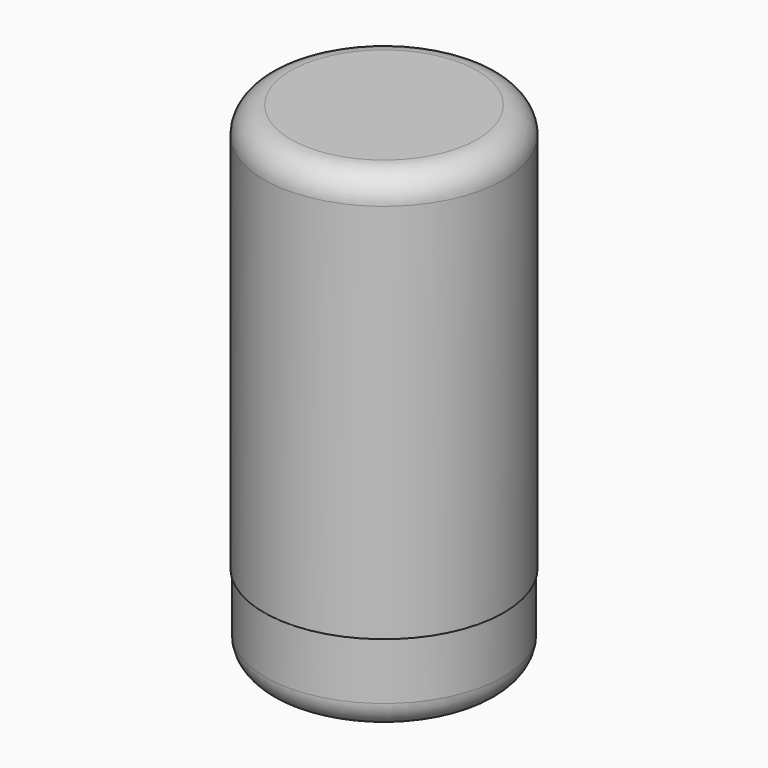
from build123d import *

# Parameters (mm, degrees)
F0_R      = 20.9647391965
F1_DEPTH  = 79.7232091427
F2_R      = 22.7630616111
F2_R_2    = 20.9647391965
F3_DEPTH  = 77.3724243045
F4_T      = -2.54
F5_R      = 5.08
F6_R      = 22.5575417357
F7_DEPTH  = 13.5688632727
F9_D      = 6.35
F9_DEPTH  = 31.75
F9_TIP    = 1.9077324654
F10_R     = 5.08
F12_D     = 2.54
F12_DEPTH = 31.75
F12_TIP   = 0.7630929862


with BuildPart() as f1:
    # F0 (on Top) → F1 (new body)
    with BuildSketch(Plane.XY):
        Circle(F0_R)
    extrude(amount=F1_DEPTH)

    # F2 (on face) → F3 (join)
    with BuildSketch(Plane.XY.offset(79.7232091427)):
        Circle(F2_R)
        Circle(F2_R_2, mode=Mode.SUBTRACT)
    extrude(amount=-F3_DEPTH)

    # F4
    f4_openings = [f1.faces().sort_by_distance(p)[0] for p in [
        (0, 0, 0),
    ]]
    offset(amount=F4_T, openings=f4_openings, kind=Kind.INTERSECTION)

    # F5
    f5_edges = [f1.edges().sort_by_distance(p)[0] for p in [
        (-22.763062, 0, 79.723209),
    ]]
    fillet(f5_edges, radius=F5_R)


with BuildPart() as f7:
    # F6 (on Top) → F7 (new body, symmetric)
    with BuildSketch(Plane.XY):
        Circle(F6_R)
    extrude(amount=F7_DEPTH, both=True)

    # F9
    with Locations(Plane(origin=(0, 0, -13.5688632727), x_dir=(1, 0, 0), z_dir=(0, 0, -1))):
        with Locations((0, -10.5188945308)):
            Hole(F9_D / 2, depth=F9_DEPTH)
            with Locations((0, 0, -(F9_DEPTH + F9_TIP / 2))):  # 118° drill point
                Cone(0, F9_D / 2, F9_TIP, mode=Mode.SUBTRACT)

    # F10
    f10_edges = [f7.edges().sort_by_distance(p)[0] for p in [
        (-22.557542, 0, -13.568863),
    ]]
    fillet(f10_edges, radius=F10_R)

    # F12
    with Locations(Plane(origin=(0, 0, -13.5688632727), x_dir=(1, 0, 0), z_dir=(0, 0, -1))):
        with Locations((-0.1373706036, -4.1517633945)):
            Hole(F12_D / 2, depth=F12_DEPTH)
            with Locations((0, 0, -(F12_DEPTH + F12_TIP / 2))):  # 118° drill point
                Cone(0, F12_D / 2, F12_TIP, mode=Mode.SUBTRACT)


solid = Compound([f1.part, f7.part])
